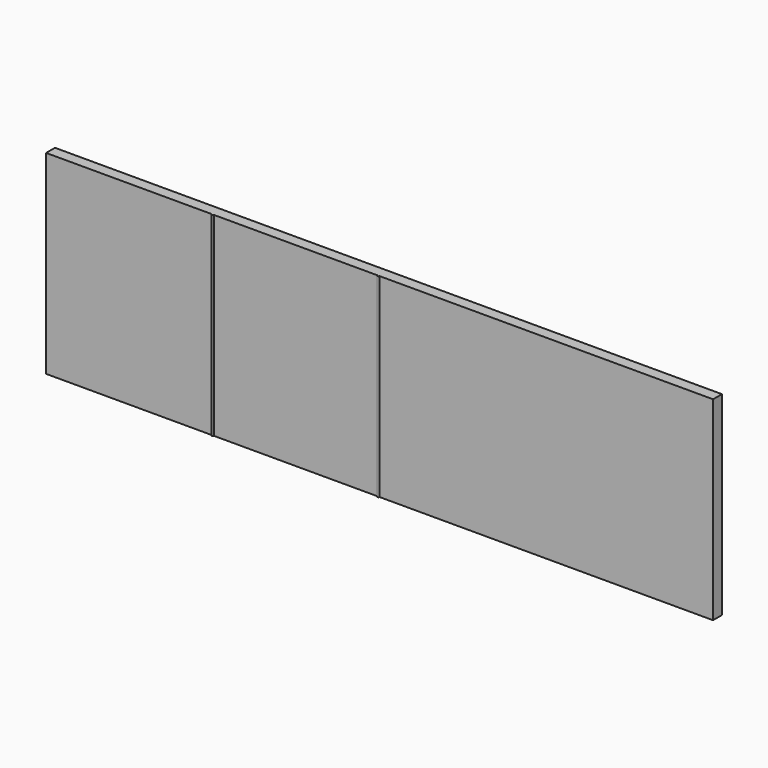
from build123d import *

# Parameters (mm, degrees)
F0_W     = 76.2
F0_H     = 88.9
F0_W_2   = 0.508
F0_W_3   = 75.184
F0_W_4   = 152.4
F1_DEPTH = 5.08


with BuildPart() as f1:
    # F0 (on Front) → F1 (new body)
    with BuildSketch(Plane.XZ):
        with Locations((-71.919513, -23.507463)):
            Rectangle(F0_W, F0_H)
        with Locations((-33.565513, -23.507463)):
            Rectangle(F0_W_2, F0_H)
        with Locations((4.280487, -23.507463)):
            Rectangle(F0_W_3, F0_H)
        with Locations((42.126487, -23.507463)):
            Rectangle(F0_W_2, F0_H)
        with Locations((118.580487, -23.507463)):
            Rectangle(F0_W_4, F0_H)
    extrude(amount=-F1_DEPTH)

    # F0 (on Front) → F2 (revolve)
    with BuildSketch(Plane.XZ):
        with Locations((-33.565513, -23.507463)):
            Rectangle(F0_W_2, F0_H)
    revolve(axis=Axis((-33.819513, 0, -23.507463), (0, 0, -1)))

    # F0 (on Front) → F3 (revolve)
    with BuildSketch(Plane.XZ):
        with Locations((42.126487, -23.507463)):
            Rectangle(F0_W_2, F0_H)
    revolve(axis=Axis((41.872487, 0, -23.507463), (0, 0, -1)))


solid = f1.part
